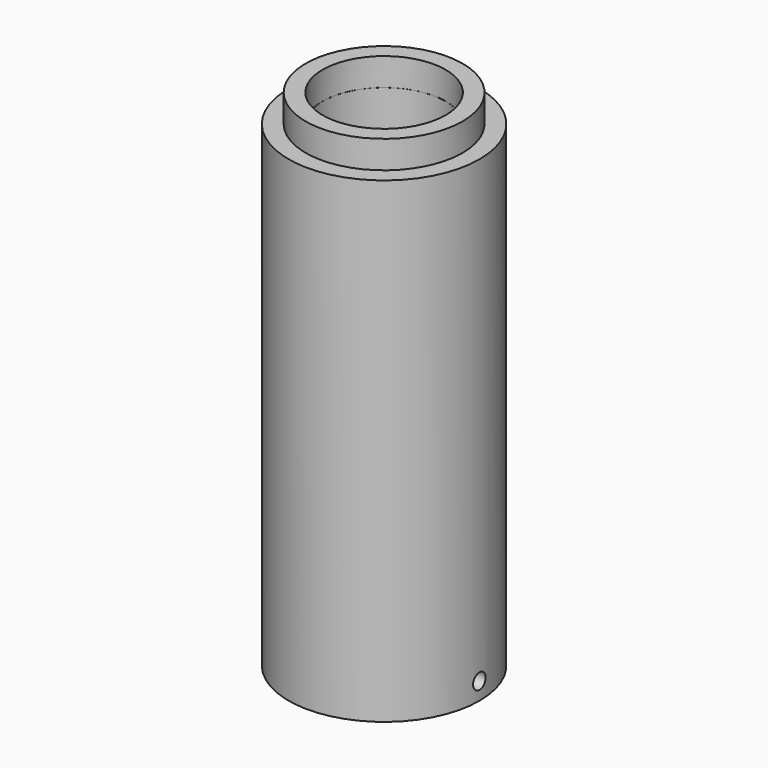
from build123d import *

# Parameters (mm, degrees)
F0_R     = 11.4935
F0_R_2   = 9.017
F1_DEPTH = 4.064
F2_R     = 13.9954
F2_R_2   = 9.0043
F3_DEPTH = 69.85
F4_R     = 11.6713
F5_DEPTH = 7.62
F6_R     = 1.143
F7_DEPTH = 13.9964


with BuildPart() as f1:
    # F0 (on Top) → F1 (new body)
    with BuildSketch(Plane.XY):
        Circle(F0_R)
        Circle(F0_R_2, mode=Mode.SUBTRACT)
    extrude(amount=F1_DEPTH)

    # F2 (on face) → F3 (join)
    with BuildSketch(Plane(origin=(0, 0, 0), x_dir=(1, 0, 0), z_dir=(0, 0, -1))):
        Circle(F2_R)
        Circle(F2_R_2, mode=Mode.SUBTRACT)
    extrude(amount=F3_DEPTH)

    # F4 (on face) → F5 (cut)
    with BuildSketch(Plane(origin=(0, 0, -69.85), x_dir=(1, 0, 0), z_dir=(0, 0, -1))):
        Circle(F4_R)
    extrude(amount=-F5_DEPTH, mode=Mode.SUBTRACT)

    # F6 (on Right) → F7 (cut, through all)
    with BuildSketch(Plane.YZ):
        with Locations((0, -67.31)):
            Circle(F6_R)
    extrude(amount=F7_DEPTH, mode=Mode.SUBTRACT)


solid = f1.part
